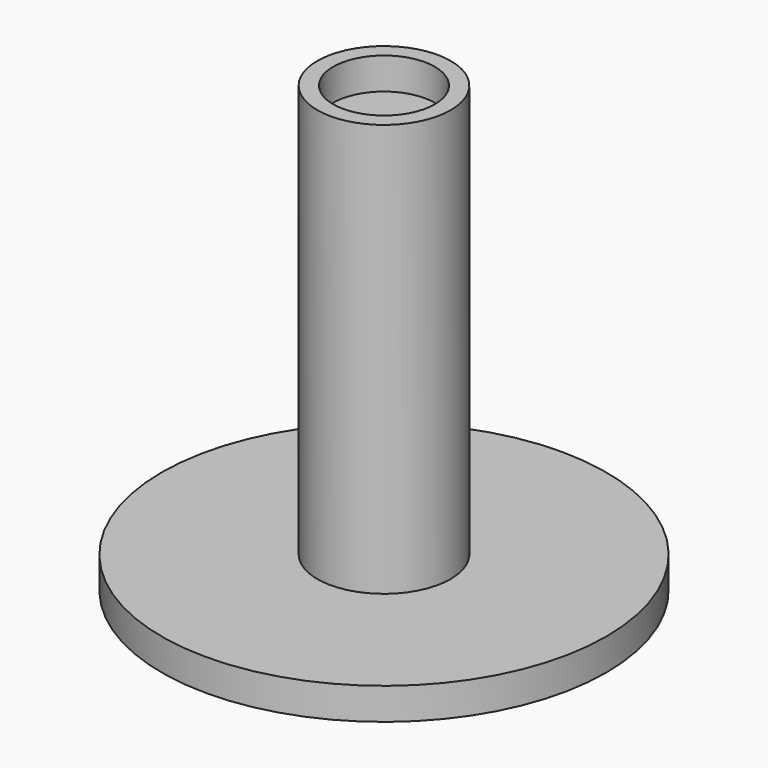
from build123d import *

# Parameters (mm, degrees)
F0_R     = 35
F0_R_2   = 10.5
F1_DEPTH = 5
F0_R_3   = 8
F2_DEPTH = 70
F3_DEPTH = 65


with BuildPart() as f1:
    # F0 (on Top) → F1 (new body)
    with BuildSketch(Plane.XY):
        Circle(F0_R)
        Circle(F0_R_2, mode=Mode.SUBTRACT)
    extrude(amount=F1_DEPTH)

    # F0 (on Top) → F2 (join)
    with BuildSketch(Plane.XY):
        Circle(F0_R_2)
        Circle(F0_R_3, mode=Mode.SUBTRACT)
    extrude(amount=F2_DEPTH)

    # F0 (on Top) → F3 (join)
    with BuildSketch(Plane.XY):
        Circle(F0_R_3)
    extrude(amount=F3_DEPTH)


solid = f1.part
